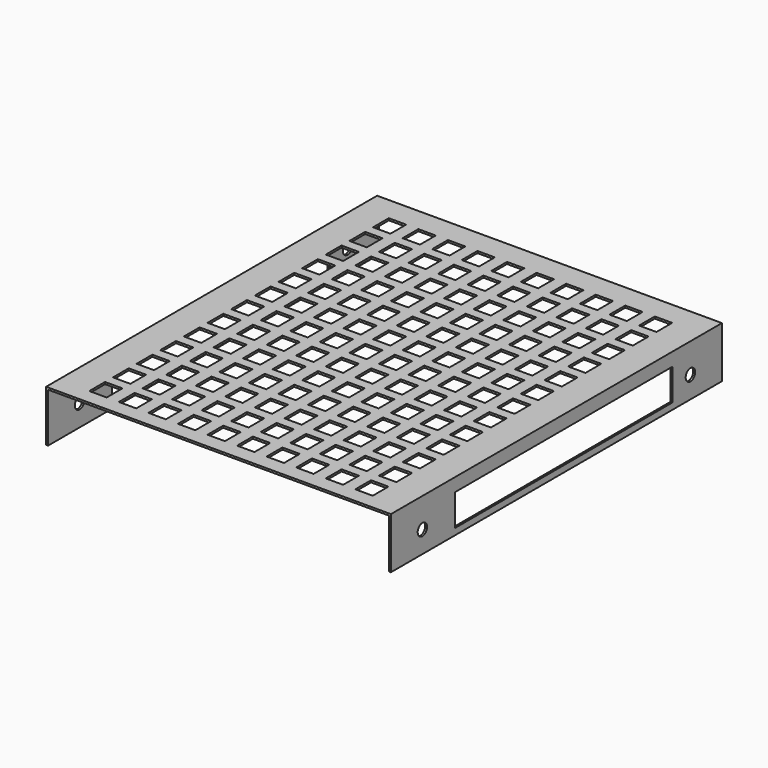
from build123d import *

# Parameters (mm, degrees)
F1_DEPTH = 210
F3_D     = 6
F4_D     = 6
F5_W     = 137.99809
F5_H     = 16.010828
F6_DEPTH = 150
F7_W     = 8.823529
F7_H     = 10
F8_DEPTH = 10000


with BuildPart() as f1:
    # F0 (on Front) → F1 (new body)
    with BuildSketch(Plane.XZ):
        Polygon((66.099259, 51.332689), (-108.900741, 51.332689), (-108.900741, 25.332689), (-107.900741, 25.332689), (-107.900741, 50.332689), (65.099259, 50.332689), (65.099259, 25.332689), (66.099259, 25.332689), align=None)
    extrude(amount=F1_DEPTH)

    # F3 (through all)
    with Locations(Plane.YZ.offset(66.099259)):
        with Locations((-190, 36.332689)):
            Hole(F3_D / 2)

    # F4 (through all)
    with Locations(Plane.YZ.offset(66.099259)):
        with Locations((-20, 36.332689)):
            Hole(F4_D / 2)

    # F5 (on Right) → F6 (cut, symmetric)
    with BuildSketch(Plane.YZ):
        with Locations((-100.474678, 36.596179)):
            Rectangle(F5_W, F5_H)
    extrude(amount=F6_DEPTH, both=True, mode=Mode.SUBTRACT)

    # F7 (on face) → F8 (cut, symmetric)
    with BuildSketch(Plane.XY.offset(51.332689)):
        with Locations((-73.808488, -17.18025)):
            Rectangle(F7_W, F7_H)
        with Locations((-58.808488, -17.18025)):
            Rectangle(F7_W, F7_H)
        with Locations((-43.808488, -17.18025)):
            Rectangle(F7_W, F7_H)
        with Locations((-28.808488, -17.18025)):
            Rectangle(F7_W, F7_H)
        with Locations((-13.808488, -17.18025)):
            Rectangle(F7_W, F7_H)
        with Locations((1.191512, -17.18025)):
            Rectangle(F7_W, F7_H)
        with Locations((16.191511, -17.18025)):
            Rectangle(F7_W, F7_H)
        with Locations((46.191512, -17.18025)):
            Rectangle(F7_W, F7_H)
        with Locations((31.191512, -17.18025)):
            Rectangle(F7_W, F7_H)
        with Locations((-88.808488, -32.18025)):
            Rectangle(F7_W, F7_H)
        with Locations((-88.808488, -17.18025)):
            Rectangle(F7_W, F7_H)
        with Locations((-73.808488, -32.18025)):
            Rectangle(F7_W, F7_H)
        with Locations((-73.808488, -47.18025)):
            Rectangle(F7_W, F7_H)
        with Locations((-88.808488, -47.18025)):
            Rectangle(F7_W, F7_H)
        with Locations((-88.808488, -62.18025)):
            Rectangle(F7_W, F7_H)
        with Locations((-73.808488, -62.18025)):
            Rectangle(F7_W, F7_H)
        with Locations((-73.808488, -77.18025)):
            Rectangle(F7_W, F7_H)
        with Locations((-88.808488, -77.18025)):
            Rectangle(F7_W, F7_H)
        with Locations((-88.808488, -92.18025)):
            Rectangle(F7_W, F7_H)
        with Locations((-73.808488, -92.18025)):
            Rectangle(F7_W, F7_H)
        with Locations((-73.808488, -107.18025)):
            Rectangle(F7_W, F7_H)
        with Locations((-88.808488, -107.18025)):
            Rectangle(F7_W, F7_H)
        with Locations((-88.808488, -122.18025)):
            Rectangle(F7_W, F7_H)
        with Locations((-73.808488, -122.18025)):
            Rectangle(F7_W, F7_H)
        with Locations((-73.808488, -137.18025)):
            Rectangle(F7_W, F7_H)
        with Locations((-88.808488, -137.18025)):
            Rectangle(F7_W, F7_H)
        with Locations((-88.808488, -152.18025)):
            Rectangle(F7_W, F7_H)
        with Locations((-73.808488, -152.18025)):
            Rectangle(F7_W, F7_H)
        with Locations((-73.808488, -167.18025)):
            Rectangle(F7_W, F7_H)
        with Locations((-88.808488, -167.18025)):
            Rectangle(F7_W, F7_H)
        with Locations((-88.808488, -182.18025)):
            Rectangle(F7_W, F7_H)
        with Locations((-73.808488, -182.18025)):
            Rectangle(F7_W, F7_H)
        with Locations((-88.808488, -197.18025)):
            Rectangle(F7_W, F7_H)
        with Locations((-73.808488, -197.18025)):
            Rectangle(F7_W, F7_H)
        with Locations((-58.808488, -32.18025)):
            Rectangle(F7_W, F7_H)
        with Locations((-58.808488, -47.18025)):
            Rectangle(F7_W, F7_H)
        with Locations((-58.808488, -62.18025)):
            Rectangle(F7_W, F7_H)
        with Locations((-58.808488, -77.18025)):
            Rectangle(F7_W, F7_H)
        with Locations((-58.808488, -107.18025)):
            Rectangle(F7_W, F7_H)
        with Locations((-58.808488, -92.18025)):
            Rectangle(F7_W, F7_H)
        with Locations((-58.808488, -122.18025)):
            Rectangle(F7_W, F7_H)
        with Locations((-58.808488, -137.18025)):
            Rectangle(F7_W, F7_H)
        with Locations((-58.808488, -152.18025)):
            Rectangle(F7_W, F7_H)
        with Locations((-58.808488, -167.18025)):
            Rectangle(F7_W, F7_H)
        with Locations((-58.808488, -182.18025)):
            Rectangle(F7_W, F7_H)
        with Locations((-58.808488, -197.18025)):
            Rectangle(F7_W, F7_H)
        with Locations((-43.808488, -197.18025)):
            Rectangle(F7_W, F7_H)
        with Locations((-43.808488, -182.18025)):
            Rectangle(F7_W, F7_H)
        with Locations((46.191512, -32.18025)):
            Rectangle(F7_W, F7_H)
        with Locations((31.191512, -32.18025)):
            Rectangle(F7_W, F7_H)
        with Locations((16.191511, -32.18025)):
            Rectangle(F7_W, F7_H)
        with Locations((1.191512, -32.18025)):
            Rectangle(F7_W, F7_H)
        with Locations((-28.808488, -32.18025)):
            Rectangle(F7_W, F7_H)
        with Locations((-43.808488, -32.18025)):
            Rectangle(F7_W, F7_H)
        with Locations((-13.808488, -32.18025)):
            Rectangle(F7_W, F7_H)
        with Locations((46.191512, -47.18025)):
            Rectangle(F7_W, F7_H)
        with Locations((31.191512, -47.18025)):
            Rectangle(F7_W, F7_H)
        with Locations((16.191511, -47.18025)):
            Rectangle(F7_W, F7_H)
        with Locations((1.191512, -47.18025)):
            Rectangle(F7_W, F7_H)
        with Locations((-13.808488, -47.18025)):
            Rectangle(F7_W, F7_H)
        with Locations((-28.808488, -47.18025)):
            Rectangle(F7_W, F7_H)
        with Locations((-43.808488, -47.18025)):
            Rectangle(F7_W, F7_H)
        with Locations((-43.808488, -62.18025)):
            Rectangle(F7_W, F7_H)
        with Locations((-43.808488, -77.18025)):
            Rectangle(F7_W, F7_H)
        with Locations((-43.808488, -92.18025)):
            Rectangle(F7_W, F7_H)
        with Locations((-43.808488, -107.18025)):
            Rectangle(F7_W, F7_H)
        with Locations((-43.808488, -122.18025)):
            Rectangle(F7_W, F7_H)
        with Locations((-43.808488, -137.18025)):
            Rectangle(F7_W, F7_H)
        with Locations((-43.808488, -152.18025)):
            Rectangle(F7_W, F7_H)
        with Locations((-43.808488, -167.18025)):
            Rectangle(F7_W, F7_H)
        with Locations((-28.808488, -197.18025)):
            Rectangle(F7_W, F7_H)
        with Locations((-28.808488, -182.18025)):
            Rectangle(F7_W, F7_H)
        with Locations((-28.808488, -167.18025)):
            Rectangle(F7_W, F7_H)
        with Locations((-28.808488, -137.18025)):
            Rectangle(F7_W, F7_H)
        with Locations((-28.808488, -122.18025)):
            Rectangle(F7_W, F7_H)
        with Locations((-28.808488, -107.18025)):
            Rectangle(F7_W, F7_H)
        with Locations((-28.808488, -92.18025)):
            Rectangle(F7_W, F7_H)
        with Locations((-28.808488, -77.18025)):
            Rectangle(F7_W, F7_H)
        with Locations((-28.808488, -62.18025)):
            Rectangle(F7_W, F7_H)
        with Locations((-13.808488, -62.18025)):
            Rectangle(F7_W, F7_H)
        with Locations((-13.808488, -77.18025)):
            Rectangle(F7_W, F7_H)
        with Locations((-13.808488, -92.18025)):
            Rectangle(F7_W, F7_H)
        with Locations((-13.808488, -107.18025)):
            Rectangle(F7_W, F7_H)
        with Locations((-13.808488, -122.18025)):
            Rectangle(F7_W, F7_H)
        with Locations((-13.808488, -137.18025)):
            Rectangle(F7_W, F7_H)
        with Locations((-28.808488, -152.18025)):
            Rectangle(F7_W, F7_H)
        with Locations((-13.808488, -152.18025)):
            Rectangle(F7_W, F7_H)
        with Locations((-13.808488, -167.18025)):
            Rectangle(F7_W, F7_H)
        with Locations((-13.808488, -182.18025)):
            Rectangle(F7_W, F7_H)
        with Locations((-13.808488, -197.18025)):
            Rectangle(F7_W, F7_H)
        with Locations((1.191512, -197.18025)):
            Rectangle(F7_W, F7_H)
        with Locations((1.191512, -182.18025)):
            Rectangle(F7_W, F7_H)
        with Locations((1.191512, -167.18025)):
            Rectangle(F7_W, F7_H)
        with Locations((1.191512, -152.18025)):
            Rectangle(F7_W, F7_H)
        with Locations((1.191512, -137.18025)):
            Rectangle(F7_W, F7_H)
        with Locations((1.191512, -122.18025)):
            Rectangle(F7_W, F7_H)
        with Locations((1.191512, -107.18025)):
            Rectangle(F7_W, F7_H)
        with Locations((1.191512, -92.18025)):
            Rectangle(F7_W, F7_H)
        with Locations((1.191512, -77.18025)):
            Rectangle(F7_W, F7_H)
        with Locations((1.191512, -62.18025)):
            Rectangle(F7_W, F7_H)
        with Locations((16.191511, -62.18025)):
            Rectangle(F7_W, F7_H)
        with Locations((16.191511, -77.18025)):
            Rectangle(F7_W, F7_H)
        with Locations((16.191511, -92.18025)):
            Rectangle(F7_W, F7_H)
        with Locations((16.191511, -107.18025)):
            Rectangle(F7_W, F7_H)
        with Locations((16.191511, -122.18025)):
            Rectangle(F7_W, F7_H)
        with Locations((16.191511, -137.18025)):
            Rectangle(F7_W, F7_H)
        with Locations((16.191511, -152.18025)):
            Rectangle(F7_W, F7_H)
        with Locations((16.191511, -167.18025)):
            Rectangle(F7_W, F7_H)
        with Locations((16.191511, -182.18025)):
            Rectangle(F7_W, F7_H)
        with Locations((16.191511, -197.18025)):
            Rectangle(F7_W, F7_H)
        with Locations((31.191512, -62.18025)):
            Rectangle(F7_W, F7_H)
        with Locations((31.191512, -77.18025)):
            Rectangle(F7_W, F7_H)
        with Locations((46.191512, -62.18025)):
            Rectangle(F7_W, F7_H)
        with Locations((46.191512, -77.18025)):
            Rectangle(F7_W, F7_H)
        with Locations((46.191512, -92.18025)):
            Rectangle(F7_W, F7_H)
        with Locations((31.191512, -92.18025)):
            Rectangle(F7_W, F7_H)
        with Locations((31.191512, -107.18025)):
            Rectangle(F7_W, F7_H)
        with Locations((46.191512, -107.18025)):
            Rectangle(F7_W, F7_H)
        with Locations((46.191512, -122.18025)):
            Rectangle(F7_W, F7_H)
        with Locations((31.191512, -122.18025)):
            Rectangle(F7_W, F7_H)
        with Locations((31.191512, -137.18025)):
            Rectangle(F7_W, F7_H)
        with Locations((46.191512, -137.18025)):
            Rectangle(F7_W, F7_H)
        with Locations((46.191512, -152.18025)):
            Rectangle(F7_W, F7_H)
        with Locations((31.191512, -152.18025)):
            Rectangle(F7_W, F7_H)
        with Locations((31.191512, -167.18025)):
            Rectangle(F7_W, F7_H)
        with Locations((46.191512, -167.18025)):
            Rectangle(F7_W, F7_H)
        with Locations((46.191512, -182.18025)):
            Rectangle(F7_W, F7_H)
        with Locations((31.191512, -182.18025)):
            Rectangle(F7_W, F7_H)
        with Locations((31.191512, -197.18025)):
            Rectangle(F7_W, F7_H)
        with Locations((46.191512, -197.18025)):
            Rectangle(F7_W, F7_H)
    extrude(amount=F8_DEPTH, both=True, mode=Mode.SUBTRACT)


solid = f1.part
